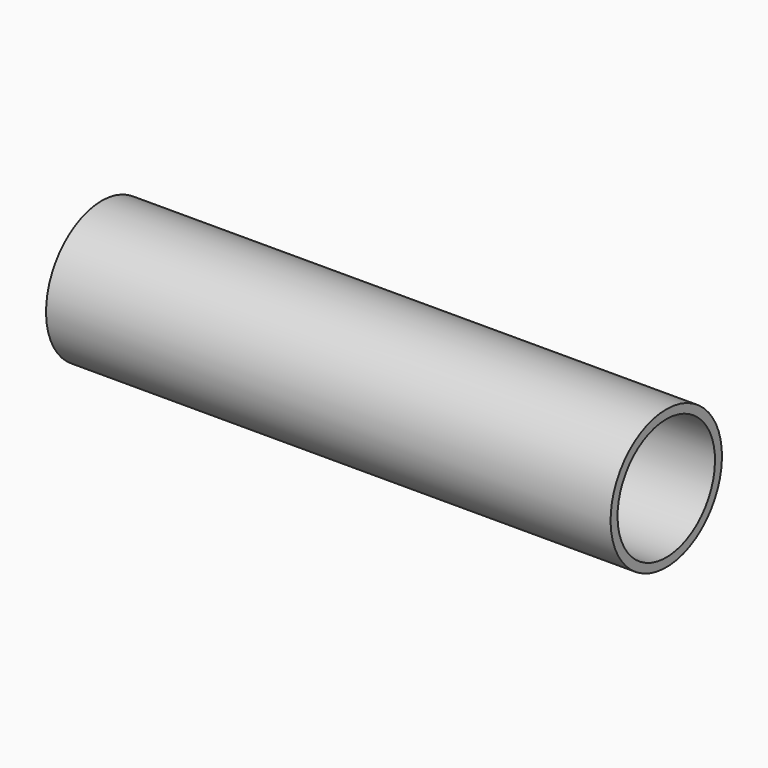
from build123d import *


with BuildPart() as f1:
    # F0 (on Front) → F1 (revolve)
    with BuildSketch(Plane.XZ):
        with BuildLine():
            Line((27, 13.5), (27, 14.75))
            ThreePointArc((27, 14.75), (27.292893, 15.457107), (28, 15.75))
            Line((28, 15.75), (144, 15.75))
            Line((144, 15.75), (144, 18))
            Line((144, 18), (-2, 18))
            Line((-2, 18), (-2, 0))
            Line((-2, 0), (0, 0))
            Line((0, 0), (0, 12.5))
            Line((0, 12.5), (26, 12.5))
            ThreePointArc((26, 12.5), (26.707107, 12.792893), (27, 13.5))
        make_face()
    revolve(axis=Axis((43.25, 0, 0), (1, 0, 0)))


solid = f1.part
